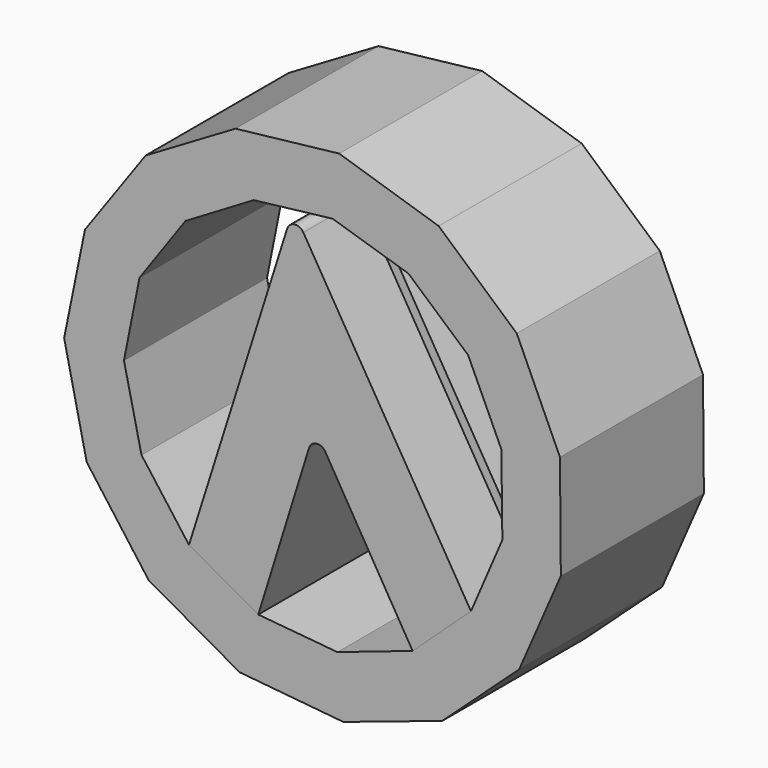
from build123d import *

# Parameters (mm, degrees)
F1_DEPTH = 25.4
F3_DEPTH = 25.4
F5_DEPTH = 25.4
F6_W     = 5.08
F6_H     = 46.232947318
F7_DEPTH = 1.27
F9_DEPTH = 1.27


with BuildPart() as f1:
    # F0 (on Front) → F1 (new body)
    with BuildSketch(Plane.XZ):
        Polygon((-11.2952926929, 33.8047836351), (-24.068407548, 26.287997104), (-32.6798760834, 14.2257770546), (-35.6406971566, -0.2962090846), (-32.4389179059, -14.7669779821), (-23.628155051, -26.6844022328), (-10.7318695327, -33.9878509172), (4.0200537238, -35.4144914081), (18.0768731704, -30.7176446039), (29.0080370226, -20.7094379868), (34.9234477439, -7.1203814023), (34.8002770806, 7.6998538132), (28.6598223596, 21.1887143534), (17.5638239862, 31.0138536885), (3.4308808833, 35.4764159689), align=None)
    extrude(amount=F1_DEPTH)

    # F2 (on face) → F3 (cut)
    with BuildSketch(Plane.XZ.offset(25.4)):
        Polygon((2.4946959605, 27.0262285687), (-8.7135393202, 25.7043726067), (-18.4151244923, 19.937997104), (-24.9325673436, 10.724160771), (-27.1389427959, -0.3439803852), (-24.6527484893, -11.3526442079), (-17.9038700056, -20.3983327115), (-8.0592497465, -25.9169641762), (3.1788880099, -26.9543170866), (13.86736715, -23.3310237005), (22.1580525288, -15.6735843609), (26.6174093258, -5.3060398952), (26.4743742388, 5.9789670722), (21.7536793338, 16.2301563156), (13.271575646, 23.6750040857), align=None)
    extrude(amount=-F3_DEPTH, mode=Mode.SUBTRACT)


with BuildPart() as f5:
    # F4 (on face) → F5 (new body)
    with BuildSketch(Plane.XZ.offset(25.4)):
        with BuildLine():
            Line((-17.9038700056, -20.3983327115), (-8.0592497465, -25.9169641762))
            Line((-8.0592497465, -25.9169641762), (-0.847007762, -2.7238105922))
            ThreePointArc((-0.847007762, -2.7238105922), (0.2169628448, -1.839663837), (1.4574269298, -2.4520344686))
            Line((1.4574269298, -2.4520344686), (13.86736715, -23.3310237005))
            Line((13.86736715, -23.3310237005), (22.1580525288, -15.6735843609))
            Line((22.1580525288, -15.6735843609), (-1.6591908606, 23.9524719031))
            ThreePointArc((-1.6591908606, 23.9524719031), (-2.8964502898, 24.5594809551), (-3.9585514638, 23.681294198))
            Line((-3.9585514638, 23.681294198), (-17.9038700056, -20.3983327115))
        make_face()
    extrude(amount=-F5_DEPTH)


with BuildPart() as f7:
    # F6 (on face) → F7 (new body)
    with BuildSketch(Plane(origin=(-10.408733288, 0, 3.2929748162), x_dir=(0, -1, 0), z_dir=(-0.9534245482, 0, 0.3016316145))):
        with Locations((12.7, -1.7321707061)):
            Rectangle(F6_W, F6_H)
    extrude(amount=F7_DEPTH)


with BuildPart() as f9:
    # F8 (on face) → F9 (new body)
    with BuildSketch(Plane(origin=(9.3570903346, 0, 5.6240796821), x_dir=(0, 1, 0), z_dir=(0.8570956117, 0, 0.5151573666))):
        Polygon((-10.2407539417, 21.3843029529), (-15.24, 21.3843029529), (-15.24, -24.8486443651), (-10.0793698555, -24.8486443651), align=None)
    extrude(amount=F9_DEPTH)


solid = Compound([f1.part, f5.part, f7.part, f9.part])
